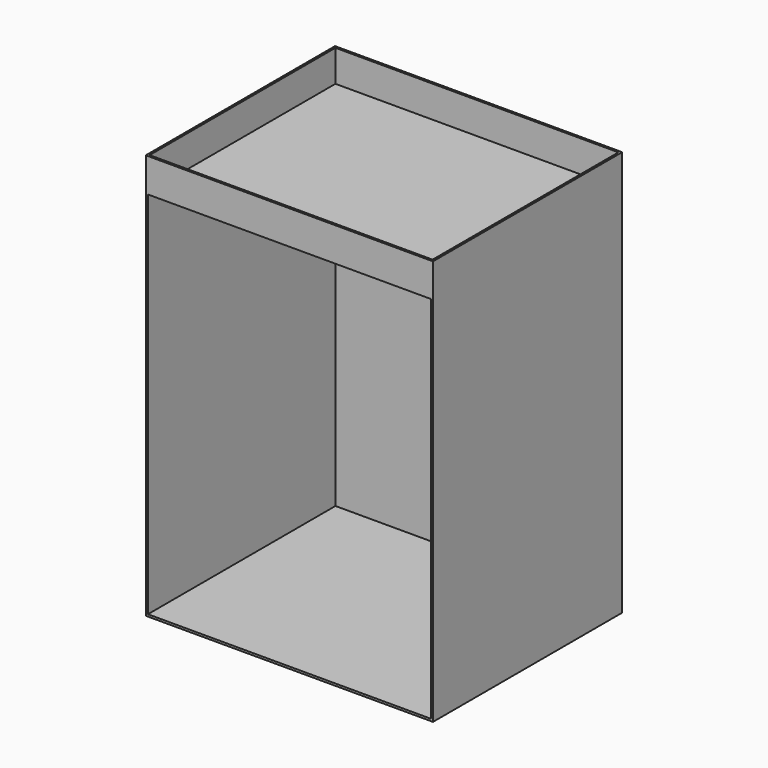
from build123d import *

# Parameters (mm, degrees)
F0_W     = 431.8
F0_H     = 609.6
F1_DEPTH = 355.6
F2_W     = 425.45
F2_H     = 555.625
F3_DEPTH = 352.425
F4_W     = 425.45
F4_H     = 349.25
F5_DEPTH = 47.625


with BuildPart() as f1:
    # F0 (on Front) → F1 (new body)
    with BuildSketch(Plane.XZ):
        Rectangle(F0_W, F0_H)
    extrude(amount=F1_DEPTH)

    # F2 (on face) → F3 (cut)
    with BuildSketch(Plane.XZ.offset(355.6)):
        with Locations((0, -23.8125)):
            Rectangle(F2_W, F2_H)
    extrude(amount=-F3_DEPTH, mode=Mode.SUBTRACT)

    # F4 (on face) → F5 (cut)
    with BuildSketch(Plane.XY.offset(304.8)):
        with Locations((0, -177.8)):
            Rectangle(F4_W, F4_H)
    extrude(amount=-F5_DEPTH, mode=Mode.SUBTRACT)


solid = f1.part
